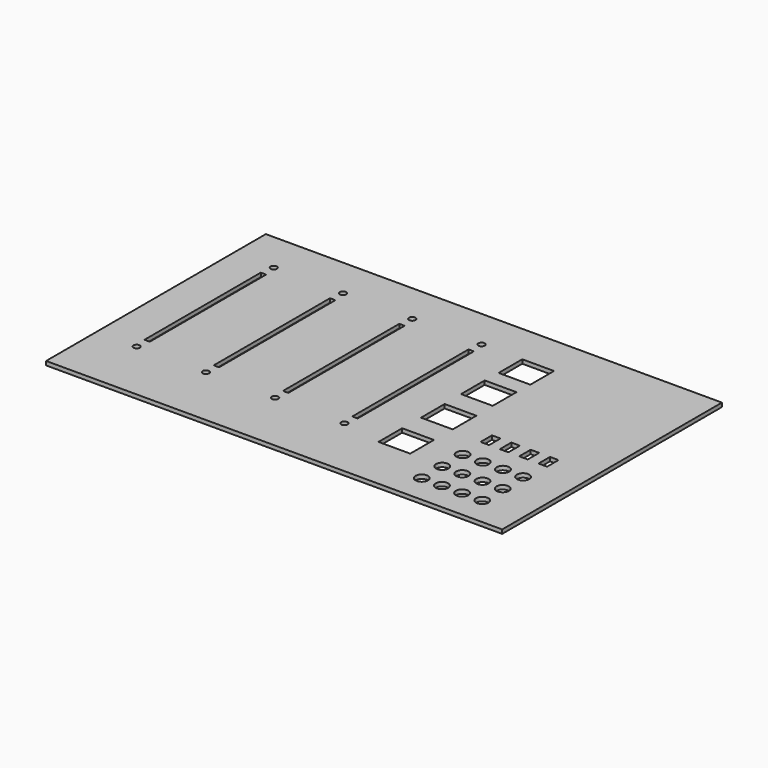
from build123d import *

# Parameters (mm, degrees)
SKETCH_W   = 213.36
SKETCH_H   = 128.5
SKETCH_R   = 1.5
SKETCH_R_2 = 2.9
SKETCH_W_2 = 2.5
SKETCH_H_2 = 68
SKETCH_W_3 = 4
SKETCH_H_3 = 6.7
SKETCH_W_4 = 14.85
SKETCH_H_4 = 13.85
PAD_DEPTH  = 1.85


with BuildPart() as part:
    # Sketch → Pad (new body)
    with BuildSketch(Plane.XY):
        with Locations((106.68, 64.25)):
            Rectangle(SKETCH_W, SKETCH_H)
        with Locations((18.87, 109.54)):
            Circle(SKETCH_R, mode=Mode.SUBTRACT)
        with Locations((18.741513, 29.54)):
            Circle(SKETCH_R, mode=Mode.SUBTRACT)
        with Locations((51.141013, 29.54)):
            Circle(SKETCH_R, mode=Mode.SUBTRACT)
        with Locations((51.2695, 109.54)):
            Circle(SKETCH_R, mode=Mode.SUBTRACT)
        with Locations((83.540513, 29.54)):
            Circle(SKETCH_R, mode=Mode.SUBTRACT)
        with Locations((83.669, 109.54)):
            Circle(SKETCH_R, mode=Mode.SUBTRACT)
        with Locations((115.940013, 29.54)):
            Circle(SKETCH_R, mode=Mode.SUBTRACT)
        with Locations((116.0685, 109.54)):
            Circle(SKETCH_R, mode=Mode.SUBTRACT)
        with Locations((165.07, 37.25)):
            Circle(SKETCH_R_2, mode=Mode.SUBTRACT)
        with Locations((174.5, 37.25)):
            Circle(SKETCH_R_2, mode=Mode.SUBTRACT)
        with Locations((183.93, 37.25)):
            Circle(SKETCH_R_2, mode=Mode.SUBTRACT)
        with Locations((193.36, 37.25)):
            Circle(SKETCH_R_2, mode=Mode.SUBTRACT)
        with Locations((165.07, 25.3)):
            Circle(SKETCH_R_2, mode=Mode.SUBTRACT)
        with Locations((174.5, 25.3)):
            Circle(SKETCH_R_2, mode=Mode.SUBTRACT)
        with Locations((183.93, 25.3)):
            Circle(SKETCH_R_2, mode=Mode.SUBTRACT)
        with Locations((193.36, 25.3)):
            Circle(SKETCH_R_2, mode=Mode.SUBTRACT)
        with Locations((165.07, 13.35)):
            Circle(SKETCH_R_2, mode=Mode.SUBTRACT)
        with Locations((174.5, 13.35)):
            Circle(SKETCH_R_2, mode=Mode.SUBTRACT)
        with Locations((183.93, 13.35)):
            Circle(SKETCH_R_2, mode=Mode.SUBTRACT)
        with Locations((193.36, 13.35)):
            Circle(SKETCH_R_2, mode=Mode.SUBTRACT)
        with Locations((18.84522, 69.54)):
            Rectangle(SKETCH_W_2, SKETCH_H_2, mode=Mode.SUBTRACT)
        with Locations((51.24474, 69.54)):
            Rectangle(SKETCH_W_2, SKETCH_H_2, mode=Mode.SUBTRACT)
        with Locations((83.64426, 69.54)):
            Rectangle(SKETCH_W_2, SKETCH_H_2, mode=Mode.SUBTRACT)
        with Locations((116.04378, 69.54)):
            Rectangle(SKETCH_W_2, SKETCH_H_2, mode=Mode.SUBTRACT)
        with Locations((165.95529, 52.45)):
            Rectangle(SKETCH_W_3, SKETCH_H_3, mode=Mode.SUBTRACT)
        with Locations((175.025228, 52.416668)):
            Rectangle(SKETCH_W_3, SKETCH_H_3, mode=Mode.SUBTRACT)
        with Locations((184.095167, 52.383335)):
            Rectangle(SKETCH_W_3, SKETCH_H_3, mode=Mode.SUBTRACT)
        with Locations((193.165106, 52.350003)):
            Rectangle(SKETCH_W_3, SKETCH_H_3, mode=Mode.SUBTRACT)
        with Locations((142.433745, 102.767182)):
            Rectangle(SKETCH_W_4, SKETCH_H_4, mode=Mode.SUBTRACT)
        with Locations((142.16844, 81.118535)):
            Rectangle(SKETCH_W_4, SKETCH_H_4, mode=Mode.SUBTRACT)
        with Locations((142.250409, 32.762028)):
            Rectangle(SKETCH_W_4, SKETCH_H_4, mode=Mode.SUBTRACT)
        with Locations((142.392972, 57.432843)):
            Rectangle(SKETCH_W_4, SKETCH_H_4, mode=Mode.SUBTRACT)
    extrude(amount=PAD_DEPTH)


solid = part.part
